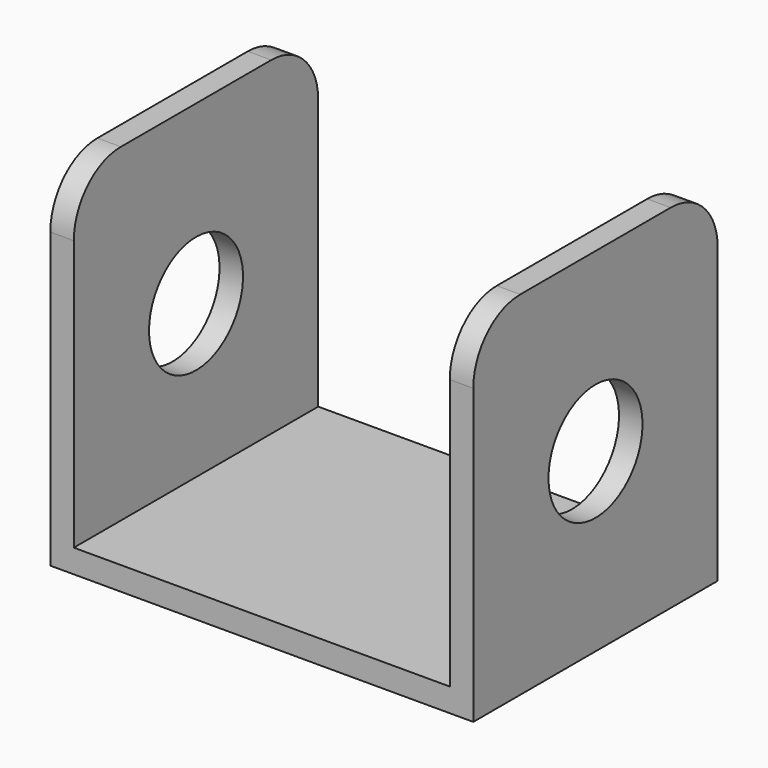
from build123d import *

# Parameters (mm, degrees)
F1_DEPTH = 26
F2_R     = 5
F3_R     = 5
F4_DEPTH = 40


with BuildPart() as f1:
    # F0 (on Front) → F1 (new body)
    with BuildSketch(Plane.XZ):
        Polygon((-16, 15), (-18, 15), (-18, -15), (18, -15), (18, 15), (16, 15), (16, -13), (-16, -13), align=None)
    extrude(amount=F1_DEPTH)

    # F2
    f2_edges = [f1.edges().sort_by_distance(p)[0] for p in [
        (-17, 0, 15),
        (17, 0, 15),
        (-17, -26, 15),
        (17, -26, 15),
    ]]
    fillet(f2_edges, radius=F2_R)

    # F3 (on face) → F4 (cut)
    with BuildSketch(Plane(origin=(-18, 0, 0), x_dir=(0, -1, 0), z_dir=(-1, 0, 0))):
        with Locations((13, 0)):
            Circle(F3_R)
    extrude(amount=-F4_DEPTH, mode=Mode.SUBTRACT)


solid = f1.part
